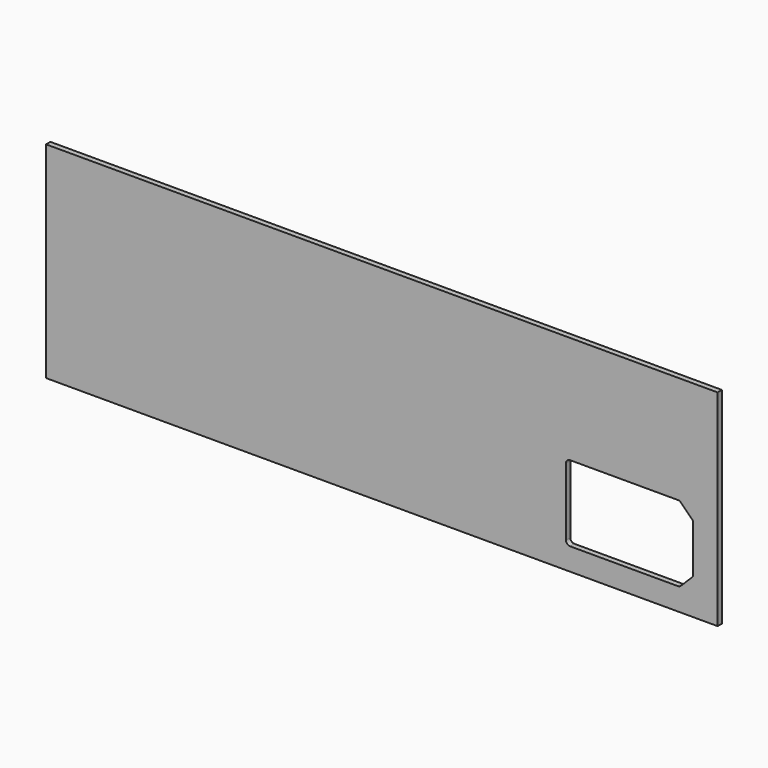
from build123d import *

# Parameters (mm, degrees)
F0_W     = 248
F0_H     = 76
F1_DEPTH = 2


with BuildPart() as f1:
    # F0 (on Front) → F1 (new body)
    with BuildSketch(Plane.XZ):
        Rectangle(F0_W, F0_H)
        with BuildLine():
            ThreePointArc((68, -3.25), (68.43934, -2.18934), (69.5, -1.75))
            Line((69.5, -1.75), (109.37868, -1.75))
            ThreePointArc((109.37868, -1.75), (109.952705, -1.864181), (110.43934, -2.18934))
            Line((110.43934, -2.18934), (114.56066, -6.31066))
            ThreePointArc((114.56066, -6.31066), (114.885819, -6.797295), (115, -7.37132))
            Line((115, -7.37132), (115, -24.12868))
            ThreePointArc((115, -24.12868), (114.885819, -24.702705), (114.56066, -25.18934))
            Line((114.56066, -25.18934), (110.43934, -29.31066))
            ThreePointArc((110.43934, -29.31066), (109.952705, -29.635819), (109.37868, -29.75))
            Line((109.37868, -29.75), (69.5, -29.75))
            ThreePointArc((69.5, -29.75), (68.43934, -29.31066), (68, -28.25))
            Line((68, -28.25), (68, -3.25))
        make_face(mode=Mode.SUBTRACT)
        Rectangle(F0_W, F0_H)
        with BuildLine():
            ThreePointArc((68, -3.25), (68.43934, -2.18934), (69.5, -1.75))
            Line((69.5, -1.75), (109.37868, -1.75))
            ThreePointArc((109.37868, -1.75), (109.952705, -1.864181), (110.43934, -2.18934))
            Line((110.43934, -2.18934), (114.56066, -6.31066))
            ThreePointArc((114.56066, -6.31066), (114.885819, -6.797295), (115, -7.37132))
            Line((115, -7.37132), (115, -24.12868))
            ThreePointArc((115, -24.12868), (114.885819, -24.702705), (114.56066, -25.18934))
            Line((114.56066, -25.18934), (110.43934, -29.31066))
            ThreePointArc((110.43934, -29.31066), (109.952705, -29.635819), (109.37868, -29.75))
            Line((109.37868, -29.75), (69.5, -29.75))
            ThreePointArc((69.5, -29.75), (68.43934, -29.31066), (68, -28.25))
            Line((68, -28.25), (68, -3.25))
        make_face(mode=Mode.SUBTRACT)
        Rectangle(F0_W, F0_H)
        with BuildLine():
            ThreePointArc((68, -3.25), (68.43934, -2.18934), (69.5, -1.75))
            Line((69.5, -1.75), (109.37868, -1.75))
            ThreePointArc((109.37868, -1.75), (109.952705, -1.864181), (110.43934, -2.18934))
            Line((110.43934, -2.18934), (114.56066, -6.31066))
            ThreePointArc((114.56066, -6.31066), (114.885819, -6.797295), (115, -7.37132))
            Line((115, -7.37132), (115, -24.12868))
            ThreePointArc((115, -24.12868), (114.885819, -24.702705), (114.56066, -25.18934))
            Line((114.56066, -25.18934), (110.43934, -29.31066))
            ThreePointArc((110.43934, -29.31066), (109.952705, -29.635819), (109.37868, -29.75))
            Line((109.37868, -29.75), (69.5, -29.75))
            ThreePointArc((69.5, -29.75), (68.43934, -29.31066), (68, -28.25))
            Line((68, -28.25), (68, -3.25))
        make_face(mode=Mode.SUBTRACT)
    extrude(amount=-F1_DEPTH)


solid = f1.part
